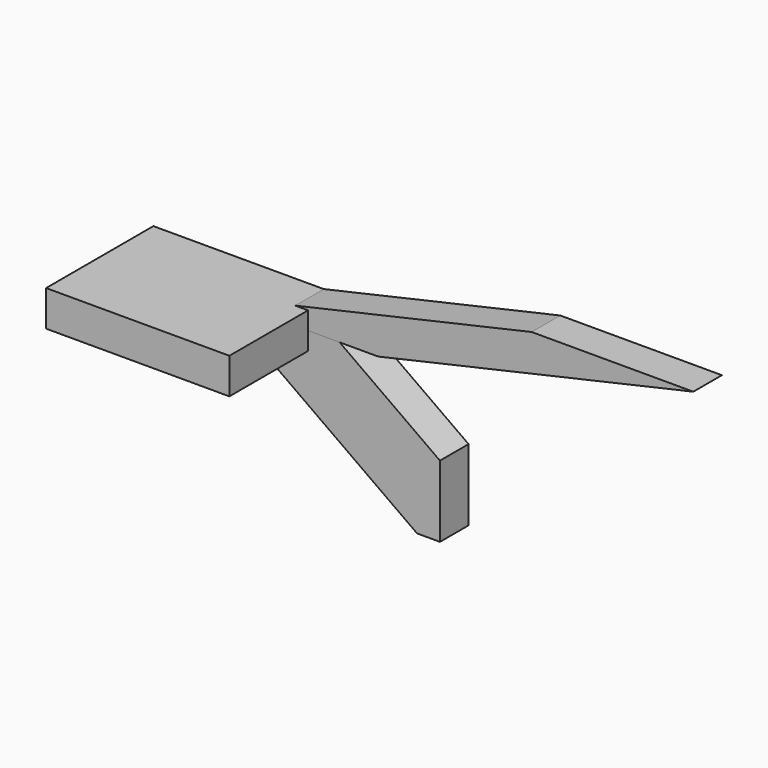
from build123d import *

# Parameters (mm, degrees)
F1_DEPTH = 80
F3_DEPTH = 80.001
F5_DEPTH = 80
F6_W     = 410
F6_H     = 80
F7_DEPTH = 300


with BuildPart() as f1:
    # F0 (on Front) → F1 (new body)
    with BuildSketch(Plane.XZ):
        Polygon((275.6, 0), (0, 0), (500, -356.506239), (500, -160), align=None)
    extrude(amount=F1_DEPTH)

    # F2 (on face) → F3 (cut, through all)
    with BuildSketch(Plane.XZ.offset(80)):
        Polygon((500, -356.506239), (500, -320), (448.8, -320), align=None)
    extrude(amount=-F3_DEPTH, mode=Mode.SUBTRACT)


with BuildPart() as f5:
    # F4 (on Front) → F5 (new body)
    with BuildSketch(Plane.XZ):
        Polygon((705.136212, 160), (0, 0), (361.530454, 0), (1066.666667, 160), align=None)
    extrude(amount=F5_DEPTH)


with BuildPart() as f7:
    # F6 (on Front) → F7 (new body)
    with BuildSketch(Plane.XZ):
        Rectangle(F6_W, F6_H)
    extrude(amount=F7_DEPTH)


solid = Compound([f1.part, f5.part, f7.part])
